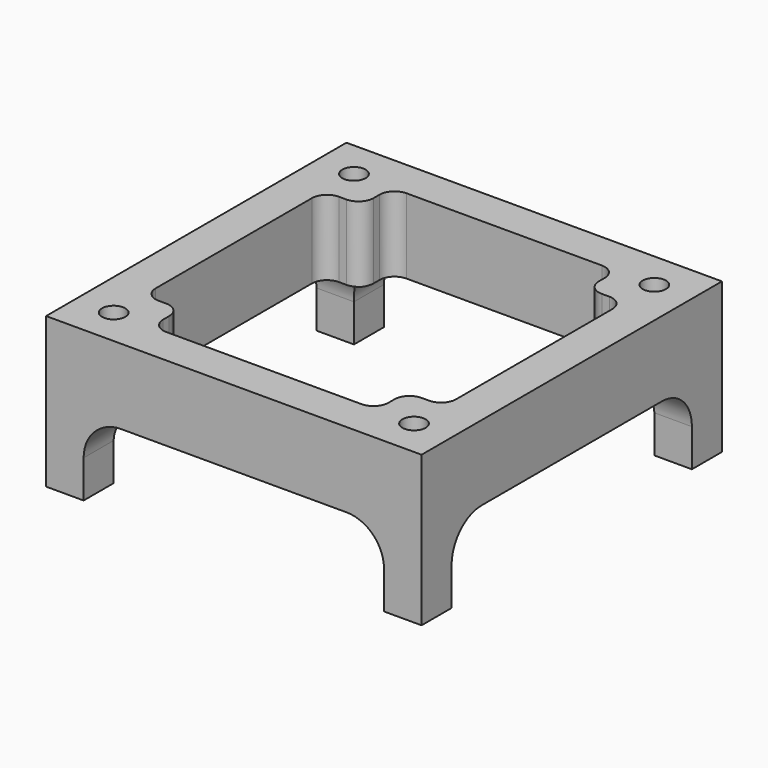
from build123d import *

# Parameters (mm, degrees)
SKETCH193_W             = 50
SKETCH193_H             = 50
PAD033_DEPTH            = 20
POCKET161_DEPTH         = 20.001
POCKET162_DEPTH         = 50.001
POCKET163_DEPTH         = 50.001
SKETCH197_R             = 1.55
POCKET164_DEPTH         = 5
SKETCH198_R             = 1.55
POCKET165_DEPTH         = 3
BODY034_PLACEMENT_ANGLE = 180


with BuildPart() as part:
    # Sketch193 → Pad033 (new body)
    with BuildSketch(Plane.XY):
        Rectangle(SKETCH193_W, SKETCH193_H)
    extrude(amount=PAD033_DEPTH)

    # Sketch194 (on Face6 of Pad033) → Pocket161 (cut, through all)
    with BuildSketch(Plane.XY.offset(20)):
        with BuildLine():
            Line((-18, 15), (-17, 15))
            ThreePointArc((-17, 15), (-15.585786, 15.585786), (-15, 17))
            Line((-15, 17), (-15, 18))
            ThreePointArc((-13, 20), (-14.414214, 19.414214), (-15, 18))
            Line((-13, 20), (13, 20))
            ThreePointArc((15, 18), (14.414214, 19.414214), (13, 20))
            Line((15, 18), (15, 17))
            ThreePointArc((15, 17), (15.585786, 15.585786), (17, 15))
            Line((17, 15), (18, 15))
            ThreePointArc((20, 13), (19.414214, 14.414214), (18, 15))
            Line((20, 13), (20, -13))
            ThreePointArc((18, -15), (19.414214, -14.414214), (20, -13))
            Line((18, -15), (17, -15))
            ThreePointArc((17, -15), (15.585786, -15.585786), (15, -17))
            Line((15, -17), (15, -18))
            ThreePointArc((13, -20), (14.414214, -19.414214), (15, -18))
            Line((13, -20), (-13, -20))
            ThreePointArc((-15, -18), (-14.414214, -19.414214), (-13, -20))
            Line((-15, -18), (-15, -17))
            ThreePointArc((-15, -17), (-15.585786, -15.585786), (-17, -15))
            Line((-17, -15), (-18, -15))
            ThreePointArc((-20, -13), (-19.414214, -14.414214), (-18, -15))
            Line((-20, -13), (-20, 13))
            ThreePointArc((-18, 15), (-19.414214, 14.414214), (-20, 13))
        make_face()
    extrude(amount=-POCKET161_DEPTH, mode=Mode.SUBTRACT)

    # Sketch195 (on Face3 of Pocket161) → Pocket162 (cut, through all)
    with BuildSketch(Plane.YZ.offset(25)):
        with BuildLine():
            Line((-15, 10), (15, 10))
            ThreePointArc((20, 5), (18.535534, 8.535534), (15, 10))
            Line((20, 5), (20, 0))
            Line((20, 0), (-20, 0))
            Line((-20, 0), (-20, 5))
            ThreePointArc((-15, 10), (-18.535534, 8.535534), (-20, 5))
        make_face()
    extrude(amount=-POCKET162_DEPTH, mode=Mode.SUBTRACT)

    # Sketch196 (on Face6 of Pocket161) → Pocket163 (cut, through all)
    with BuildSketch(Plane.XZ.offset(25)):
        with BuildLine():
            Line((-15, 10), (15, 10))
            ThreePointArc((20, 5), (18.535534, 8.535534), (15, 10))
            Line((20, 5), (20, 0))
            Line((20, 0), (-20, 0))
            Line((-20, 0), (-20, 5))
            ThreePointArc((-15, 10), (-18.535534, 8.535534), (-20, 5))
        make_face()
    extrude(amount=-POCKET163_DEPTH, mode=Mode.SUBTRACT)

    # Sketch197 → Pocket164 (cut)
    with BuildSketch(Plane.XY.offset(20)):
        with Locations((-20, 20)):
            Circle(SKETCH197_R)
        with Locations((20, 20)):
            Circle(SKETCH197_R)
        with Locations((20, -20)):
            Circle(SKETCH197_R)
        with Locations((-20, -20)):
            Circle(SKETCH197_R)
    extrude(amount=-POCKET164_DEPTH, mode=Mode.SUBTRACT)

    # Sketch198 (on Face27 of Pocket164) → Pocket165 (cut)
    with BuildSketch(Plane.XZ.offset(25)):
        with Locations((-20, 14)):
            Circle(SKETCH198_R)
        with Locations((20, 14)):
            Circle(SKETCH198_R)
    extrude(amount=-POCKET165_DEPTH, mode=Mode.SUBTRACT)


with BuildPart() as part_1:
    # Body034 placement: moved
    add(part.part.moved(Location((85, 145, 0))).rotate(Axis((85, 145, 0), (0, 0, 1)), BODY034_PLACEMENT_ANGLE))


solid = part_1.part
